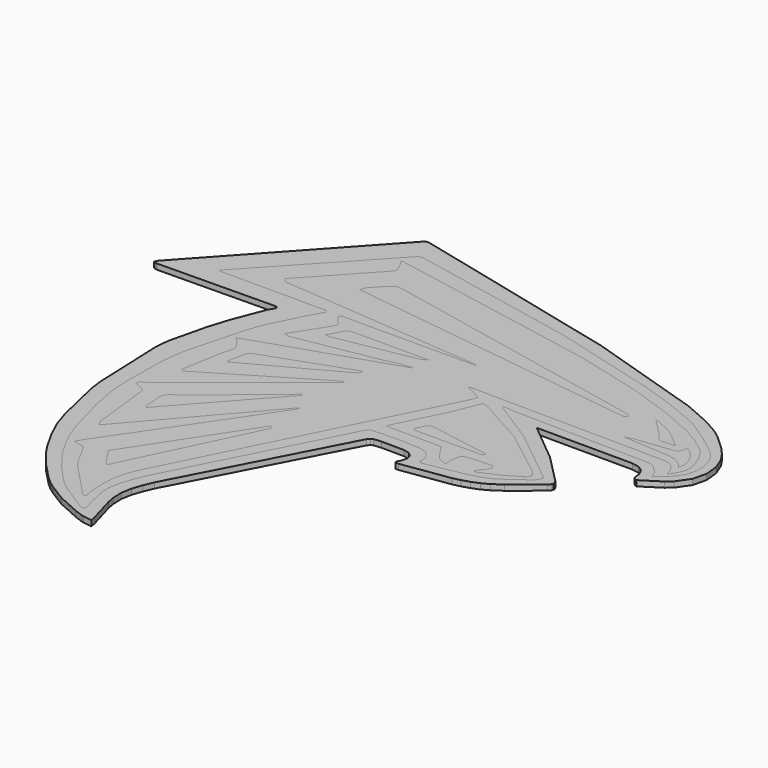
from build123d import *

# Parameters (mm, degrees)
F1_DEPTH = 0.5
F2_DEPTH = 0.5


with BuildPart() as f1:
    # F0 (on Top) → F1 (new body, symmetric)
    with BuildSketch(Plane.XY):
        Polygon((30.30317, 7.500091), (23.278922, 13.29919), (23.276154, 13.301673), (23.311819, 13.316003), (23.373102, 13.332019), (23.4472, 13.339594), (40.578815, 13.299213), (41.889452, 13.063877), (42.820591, 12.428173), (43.372628, 11.439135), (43.545941, 10.143829), (43.640143, 9.976964), (43.856252, 9.791953), (44.089959, 9.652141), (44.236959, 9.620896), (47.614499, 11.786375), (48.621523, 12.63559), (50.209495, 14.898633), (50.791411, 17.375859), (50.552111, 19.824755), (49.676446, 22.002833), (48.693366, 23.436709), (47.518485, 24.764319), (44.892334, 27.185638), (43.834222, 27.996933), (42.691611, 28.712749), (40.301731, 29.992984), (35.834605, 31.94313), (14.659128, 38.663753), (-23.951954, 48.090479), (-24.187449, 48.114662), (-24.439519, 48.106164), (-24.669068, 48.055646), (-24.837004, 47.9538), (-50.503027, 19.890162), (-50.598848, 19.750532), (-50.668936, 19.587152), (-50.791411, 19.244081), (-50.453853, 19.138168), (-50.28537, 19.095042), (-50.117741, 19.080371), (-29.004265, 19.356054), (-28.567036, 19.269426), (-28.436667, 18.957885), (-28.780456, 18.286288), (-28.926989, 18.093839), (-28.99432, 17.995011), (-29.047003, 17.890466), (-31.326449, 11.997358), (-32.456757, 8.379162), (-34.039865, 1.79024), (-34.238591, 0.312885), (-34.312541, -1.162328), (-33.790222, -14.272509), (-33.474375, -16.605526), (-31.521188, -25.03843), (-30.545067, -27.998812), (-29.114381, -31.107914), (-27.256991, -34.371842), (-26.208993, -35.91982), (-23.757215, -38.962138), (-21.0452, -41.783859), (-20.036125, -42.664934), (-18.94761, -43.465703), (-15.83959, -45.395095), (-11.814853, -47.190939), (-10.367057, -47.732304), (-9.85261, -47.867263), (-8.258099, -48.114662), (-8.512458, -46.967735), (-9.862964, -42.225826), (-10.15153, -40.753027), (-10.202629, -38.849687), (-9.87161, -37.001455), (-9.273883, -35.201669), (-8.524863, -33.443688), (6.605723, -4.418111), (6.966997, -3.980848), (7.351224, -3.775709), (8.702857, -3.660707), (12.797238, -3.689765), (13.921908, -3.95318), (14.609224, -4.591811), (14.808941, -5.508619), (14.470824, -6.606543), (14.258635, -6.987261), (14.155319, -7.289724), (14.308709, -7.462843), (14.866693, -7.45553), (23.524635, -6.180307), (24.916034, -5.849025), (26.295621, -5.423017), (27.625623, -4.884637), (28.868212, -4.216241), (30.53166, -3.080807), (35.257804, 0.744715), (35.588527, 1.072727), (35.770041, 1.438808), (35.738466, 1.845247), (35.429932, 2.294356), align=None)
        Polygon((-22.601334, 22.795868), (-32.093137, 22.817636), (-41.347712, 22.822215), (-41.502435, 22.833242), (-41.966478, 22.923252), (-41.73637, 23.261824), (-41.650243, 23.366006), (-22.724139, 43.700276), (-22.423716, 43.861321), (-22.008164, 43.918719), (-21.547766, 43.9057), (8.303253, 37.883726), (27.907332, 32.609623), (33.565126, 30.67219), (38.887949, 28.486833), (40.100522, 27.817082), (43.611381, 25.496207), (46.943643, 22.931716), (48.030164, 21.739475), (48.743531, 20.345183), (49.102903, 18.80233), (49.127416, 17.164432), (48.786566, 15.710759), (48.087358, 14.466587), (47.127503, 13.375874), (46.004668, 12.382598), (45.288453, 11.981889), (45.017862, 12.219606), (44.933661, 12.726729), (44.776671, 13.134227), (43.633286, 14.220179), (43.046336, 14.667056), (42.444201, 14.872627), (17.223175, 15.309024), (15.94458, 15.494013), (15.831685, 15.488579), (15.71642, 15.459339), (15.484251, 15.384125), (15.658212, 15.144904), (15.750148, 15.033205), (15.856471, 14.944527), (23.372464, 10.219306), (33.574649, 1.975229), (33.560787, 1.771343), (33.410495, 1.37904), (33.171673, 0.951118), (32.892277, 0.64034), (29.95954, -1.545883), (28.445416, -2.528212), (26.847488, -3.274464), (24.578374, -3.937939), (17.527107, -5.247323), (16.910586, -5.223026), (16.719549, -4.902623), (16.758175, -4.098015), (16.365645, -3.083655), (15.713196, -2.394254), (14.884178, -1.987314), (13.961902, -1.820358), (9.671813, -1.687927), (5.381497, -1.823468), (5.027467, -2.037628), (4.686595, -2.533429), (-10.412837, -32.097807), (-11.397023, -34.388552), (-12.13701, -36.612627), (-12.40096, -37.748254), (-12.541137, -38.888598), (-12.512807, -39.970688), (-12.34871, -41.061106), (-11.724887, -43.847606), (-11.165354, -45.651971), (-11.218402, -45.695382), (-11.353168, -45.766826), (-11.519031, -45.829236), (-11.665392, -45.845559), (-11.881512, -45.79962), (-12.095741, -45.731183), (-12.301962, -45.641594), (-16.840725, -42.767873), (-18.17976, -41.719568), (-19.494715, -40.483017), (-21.912389, -37.770854), (-23.903451, -35.172736), (-24.701544, -33.944273), (-26.138939, -31.391548), (-27.232466, -29.009789), (-28.111377, -26.538407), (-30.040142, -19.280965), (-30.704437, -15.580037), (-30.974834, -11.854185), (-30.894494, -4.369643), (-30.690768, -1.771206), (-30.262174, 0.802341), (-27.537424, 11.117057), (-26.461803, 14.038608), (-23.469207, 20.085083), (-22.178515, 22.318202), (-22.207334, 22.423078), (-22.319136, 22.583564), (-22.466329, 22.730803), align=None, mode=Mode.SUBTRACT)
        Polygon((-41.347712, 22.822215), (-32.093137, 22.817636), (-22.601334, 22.795868), (-22.466329, 22.730803), (-22.319136, 22.583564), (-22.207334, 22.423078), (-22.178515, 22.318202), (-23.469207, 20.085083), (-26.461803, 14.038608), (-27.537424, 11.117057), (-30.262174, 0.802341), (-30.690768, -1.771206), (-30.894494, -4.369643), (-30.974834, -11.854185), (-30.704437, -15.580037), (-30.040142, -19.280965), (-28.111377, -26.538407), (-27.232466, -29.009789), (-26.138939, -31.391548), (-24.701544, -33.944273), (-23.903451, -35.172736), (-21.912389, -37.770854), (-19.494715, -40.483017), (-18.17976, -41.719568), (-16.840725, -42.767873), (-12.301962, -45.641594), (-12.095741, -45.731183), (-11.881512, -45.79962), (-11.665392, -45.845559), (-11.519031, -45.829236), (-11.353168, -45.766826), (-11.218402, -45.695382), (-11.165354, -45.651971), (-11.724887, -43.847606), (-12.34871, -41.061106), (-12.512807, -39.970688), (-12.541137, -38.888598), (-12.40096, -37.748254), (-12.13701, -36.612627), (-11.397023, -34.388552), (-10.412837, -32.097807), (4.686595, -2.533429), (5.027467, -2.037628), (5.381497, -1.823468), (9.671813, -1.687927), (13.961902, -1.820358), (14.884178, -1.987314), (15.713196, -2.394254), (16.365645, -3.083655), (16.758175, -4.098015), (16.719549, -4.902623), (16.910586, -5.223026), (17.527107, -5.247323), (24.578374, -3.937939), (26.847488, -3.274464), (28.445416, -2.528212), (29.95954, -1.545883), (32.892277, 0.64034), (33.171673, 0.951118), (33.410495, 1.37904), (33.560787, 1.771343), (33.574649, 1.975229), (23.372464, 10.219306), (15.856471, 14.944527), (15.750148, 15.033205), (15.658212, 15.144904), (15.484251, 15.384125), (15.71642, 15.459339), (15.831685, 15.488579), (15.94458, 15.494013), (17.223175, 15.309024), (42.444201, 14.872627), (43.046336, 14.667056), (43.633286, 14.220179), (44.776671, 13.134227), (44.933661, 12.726729), (45.017862, 12.219606), (45.288453, 11.981889), (46.004668, 12.382598), (47.127503, 13.375874), (48.087358, 14.466587), (48.786566, 15.710759), (49.127416, 17.164432), (49.102903, 18.80233), (48.743531, 20.345183), (48.030164, 21.739475), (46.943643, 22.931716), (43.611381, 25.496207), (40.100522, 27.817082), (38.887949, 28.486833), (33.565126, 30.67219), (27.907332, 32.609623), (8.303253, 37.883726), (-21.547766, 43.9057), (-22.008164, 43.918719), (-22.423716, 43.861321), (-22.724139, 43.700276), (-41.650243, 23.366006), (-41.73637, 23.261824), (-41.966478, 22.923252), (-41.502435, 22.833242), align=None)
        Polygon((-1.966469, 16.636999), (-1.992463, 16.82897), (-4.634572, 16.433546), (-6.815657, 15.920101), (-21.552243, 13.341746), (-21.809165, 13.345836), (-22.07676, 13.414944), (-22.619354, 13.598315), (-18.441318, 20.178614), (-18.456252, 20.376007), (-18.61192, 20.658182), (-19.257374, 21.513685), (-19.918081, 22.24907), (-19.976106, 22.357227), (-20.016476, 22.491298), (-20.032594, 22.610139), (-20.017865, 22.672607), (-19.901268, 22.733002), (-19.772072, 22.776503), (-19.636931, 22.802896), (-19.502461, 22.811963), (3.798628, 22.857789), (4.685922, 22.913365), (4.148089, 23.075617), (4.075484, 23.087919), (-32.264798, 26.035476), (-32.506797, 26.143348), (-32.757682, 26.363454), (-32.944892, 26.606878), (-32.995866, 26.784701), (-32.850256, 27.055839), (-22.386035, 38.381327), (-22.348513, 38.638078), (-22.46093, 39.021553), (-23.006691, 40.206138), (-23.689017, 41.348168), (14.914614, 34.121868), (26.989851, 30.972032), (34.304909, 28.464472), (40.227941, 25.928025), (43.012858, 24.339552), (45.579605, 22.383437), (46.239377, 21.611988), (46.763963, 20.685338), (47.624215, 18.681974), (47.940028, 17.453078), (47.845472, 16.283277), (47.413016, 15.171559), (46.715175, 14.116909), (46.659326, 14.05255), (46.474406, 13.873121), (46.357114, 14.156128), (46.328466, 14.252894), (45.976304, 15.232887), (45.417045, 16.019851), (44.660848, 16.557149), (43.717852, 16.788179), (8.497194, 17.14288), (8.34123, 17.132629), (7.87336, 17.04788), (10.817146, 15.521898), (10.863621, 15.367619), (10.834528, 15.078928), (10.751899, 14.744218), (10.637739, 14.451859), (-12.398545, -31.564735), (-13.307881, -33.759603), (-13.817533, -36.009307), (-13.987087, -38.309621), (-13.876151, -40.656364), (-13.593372, -42.395733), (-13.590262, -42.502124), (-13.60523, -42.618231), (-13.635085, -42.714929), (-13.676616, -42.763089), (-13.792838, -42.785985), (-13.921555, -42.789072), (-14.040374, -42.768022), (-14.126887, -42.718528), (-20.193445, -36.297201), (-21.027544, -35.117809), (-23.149419, -31.264369), (-23.259626, -31.183391), (-23.435866, -31.141802), (-23.832873, -31.081886), (-25.267182, -30.697728), (-24.56098, -29.511798), (-6.725111, -3.240918), (-6.694743, -3.147843), (-6.695996, -3.033717), (-6.720498, -2.790817), (-6.931355, -2.977754), (-25.35602, -24.276481), (-25.454893, -24.352378), (-25.583895, -24.415552), (-25.696744, -24.45722), (-25.747126, -24.468611), (-26.025064, -24.003327), (-26.139999, -23.764744), (-26.204266, -23.519452), (-27.402954, -13.072192), (-27.513981, -12.550603), (-27.617673, -12.372255), (-27.806317, -12.208818), (-28.037621, -12.076422), (-28.269324, -11.991207), (-29.511752, -11.451403), (-29.495224, -10.927831), (-28.852276, -10.450438), (-28.215479, -10.04916), (-6.906431, 7.038031), (-6.846367, 7.100145), (-6.692077, 7.316231), (-6.974663, 7.332383), (-7.109155, 7.328989), (-7.223873, 7.292219), (-26.720035, -4.33752), (-26.823407, -4.324717), (-26.969029, -4.249993), (-27.097063, -4.154696), (-27.147684, -4.080177), (-25.9763, 2.864528), (-25.420298, 5.025816), (-25.368345, 5.737668), (-25.496515, 6.219936), (-25.781846, 6.695711), (-26.494506, 7.623512), (-26.63679, 7.780034), (-26.809761, 7.91488), (-27.177505, 8.169182), (-26.712175, 8.479948), (-26.547189, 8.554923), align=None, mode=Mode.SUBTRACT)
        Polygon((11.360674, 0.425701), (11.360663, 0.438573), (6.853076, 0.447492), (6.71102, 0.462915), (6.564363, 0.50456), (6.436591, 0.569659), (6.351182, 0.655399), (6.337182, 0.754944), (6.372095, 0.885153), (10.593053, 9.316667), (12.601486, 14.314518), (12.708572, 14.360822), (12.925261, 14.369776), (13.176191, 14.340592), (13.385989, 14.272463), (22.26954, 9.32709), (31.194087, 2.475005), (31.880355, 1.463777), (31.552171, 0.743074), (30.767258, 0.239232), (30.083348, -0.121438), (28.873987, -0.860982), (24.952121, -2.656758), (24.874139, -2.66513), (24.780802, -2.640458), (24.583602, -2.568399), (24.629884, -2.344283), (24.659659, -2.237174), (24.708469, -2.144258), (25.70768, -0.860515), (26.001474, -0.410152), (25.983875, -0.228957), (25.85526, 0.036542), (25.681059, 0.275728), (25.526724, 0.377962), (21.764228, 0.18525), (20.525934, 0.015013), (20.323404, -0.204478), (20.161698, -0.686735), (19.949292, -1.846318), (19.934108, -2.215987), (20.092965, -3.35469), (19.138692, -3.003588), (18.692146, -2.800215), (18.330303, -2.519794), (17.792845, -1.85977), (16.356999, 0.283337), (16.286637, 0.344005), (16.185873, 0.386334), (16.072215, 0.41128), (15.963136, 0.419789), align=None, mode=Mode.SUBTRACT)
        Polygon((-4.634572, 16.433546), (-1.992463, 16.82897), (-1.966469, 16.636999), (-26.547189, 8.554923), (-26.712175, 8.479948), (-27.177505, 8.169182), (-26.809761, 7.91488), (-26.63679, 7.780034), (-26.494506, 7.623512), (-25.781846, 6.695711), (-25.496515, 6.219936), (-25.368345, 5.737668), (-25.420298, 5.025816), (-25.9763, 2.864528), (-27.147684, -4.080177), (-27.097063, -4.154696), (-26.969029, -4.249993), (-26.823407, -4.324717), (-26.720035, -4.33752), (-7.223873, 7.292219), (-7.109155, 7.328989), (-6.974663, 7.332383), (-6.692077, 7.316231), (-6.846367, 7.100145), (-6.906431, 7.038031), (-28.215479, -10.04916), (-28.852276, -10.450438), (-29.495224, -10.927831), (-29.511752, -11.451403), (-28.269324, -11.991207), (-28.037621, -12.076422), (-27.806317, -12.208818), (-27.617673, -12.372255), (-27.513981, -12.550603), (-27.402954, -13.072192), (-26.204266, -23.519452), (-26.139999, -23.764744), (-26.025064, -24.003327), (-25.747126, -24.468611), (-25.696744, -24.45722), (-25.583895, -24.415552), (-25.454893, -24.352378), (-25.35602, -24.276481), (-6.931355, -2.977754), (-6.720498, -2.790817), (-6.695996, -3.033717), (-6.694743, -3.147843), (-6.725111, -3.240918), (-24.56098, -29.511798), (-25.267182, -30.697728), (-23.832873, -31.081886), (-23.435866, -31.141802), (-23.259626, -31.183391), (-23.149419, -31.264369), (-21.027544, -35.117809), (-20.193445, -36.297201), (-14.126887, -42.718528), (-14.040374, -42.768022), (-13.921555, -42.789072), (-13.792838, -42.785985), (-13.676616, -42.763089), (-13.635085, -42.714929), (-13.60523, -42.618231), (-13.590262, -42.502124), (-13.593372, -42.395733), (-13.876151, -40.656364), (-13.987087, -38.309621), (-13.817533, -36.009307), (-13.307881, -33.759603), (-12.398545, -31.564735), (10.637739, 14.451859), (10.751899, 14.744218), (10.834528, 15.078928), (10.863621, 15.367619), (10.817146, 15.521898), (7.87336, 17.04788), (8.34123, 17.132629), (8.497194, 17.14288), (43.717852, 16.788179), (44.660848, 16.557149), (45.417045, 16.019851), (45.976304, 15.232887), (46.328466, 14.252894), (46.357114, 14.156128), (46.474406, 13.873121), (46.659326, 14.05255), (46.715175, 14.116909), (47.413016, 15.171559), (47.845472, 16.283277), (47.940028, 17.453078), (47.624215, 18.681974), (46.763963, 20.685338), (46.239377, 21.611988), (45.579605, 22.383437), (43.012858, 24.339552), (40.227941, 25.928025), (34.304909, 28.464472), (26.989851, 30.972032), (14.914614, 34.121868), (-23.689017, 41.348168), (-23.006691, 40.206138), (-22.46093, 39.021553), (-22.348513, 38.638078), (-22.386035, 38.381327), (-32.850256, 27.055839), (-32.995866, 26.784701), (-32.944892, 26.606878), (-32.757682, 26.363454), (-32.506797, 26.143348), (-32.264798, 26.035476), (4.075484, 23.087919), (4.148089, 23.075617), (4.685922, 22.913365), (3.798628, 22.857789), (-19.502461, 22.811963), (-19.636931, 22.802896), (-19.772072, 22.776503), (-19.901268, 22.733002), (-20.017865, 22.672607), (-20.032594, 22.610139), (-20.016476, 22.491298), (-19.976106, 22.357227), (-19.918081, 22.24907), (-19.257374, 21.513685), (-18.61192, 20.658182), (-18.456252, 20.376007), (-18.441318, 20.178614), (-22.619354, 13.598315), (-22.07676, 13.414944), (-21.809165, 13.345836), (-21.552243, 13.341746), (-6.815657, 15.920101), align=None)
        Polygon((-17.495361, -33.278064), (-19.737524, -29.955246), (-6.62937, -9.92861), (-6.548655, -9.858134), (-6.431693, -9.800713), (-6.32373, -9.765845), (-6.269999, -9.763054), (-6.080614, -10.041961), (-6.017667, -10.17995), (-6.016141, -10.292447), (-17.048085, -33.240451), (-17.12871, -33.287781), (-17.269821, -33.312545), (-17.411888, -33.310654), align=None, mode=Mode.SUBTRACT)
        Polygon((-24.007439, -16.03966), (-24.382074, -12.741947), (-24.237991, -11.795169), (-23.620854, -11.123265), (-21.960106, -10.00445), (-9.127966, 0.626853), (-9.087949, 0.644919), (-9.037875, 0.650535), (-8.930823, 0.6532), (-8.957148, 0.421395), (-8.978585, 0.312259), (-9.024035, 0.222772), (-23.631698, -16.130354), (-23.687434, -16.175063), (-23.754344, -16.209441), (-23.895842, -16.271112), (-23.962502, -16.156667), (-23.9914, -16.098927), align=None, mode=Mode.SUBTRACT)
        Polygon((-22.148033, 6.069154), (-6.923951, 11.479026), (-6.714347, 11.337881), (-6.691234, 11.31093), (-6.859752, 10.893841), (-6.961734, 10.70875), (-7.0965, 10.582994), (-23.379709, 1.850327), (-23.435194, 1.832968), (-23.500965, 1.825404), (-23.556815, 1.826566), (-23.582558, 1.835371), (-23.606171, 1.913342), (-23.625023, 1.993898), (-23.634523, 2.074569), (-23.630047, 2.152858), (-23.022126, 5.411512), (-22.902134, 5.615079), (-22.684032, 5.799076), (-22.41646, 5.953696), align=None, mode=Mode.SUBTRACT)
        Polygon((-15.969366, 19.894103), (-14.953765, 20.016692), (-1.653265, 19.990652), (-2.689883, 19.475875), (-3.048001, 19.367866), (-15.707991, 17.081016), (-16.303177, 16.93658), (-16.603259, 16.888806), (-16.929722, 16.868451), (-17.916608, 16.879921), (-17.537871, 17.596762), (-17.397046, 17.826004), (-16.588701, 19.342191), align=None, mode=Mode.SUBTRACT)
        Polygon((46.640326, 17.51509), (46.536805, 16.286444), (45.565366, 17.452531), (44.37308, 18.085968), (43.027632, 18.361776), (34.631498, 18.876702), (35.8136, 19.21574), (36.192735, 19.286945), (42.891784, 20.044782), (43.082, 20.123937), (43.265952, 20.275482), (43.422156, 20.467533), (43.529128, 20.668183), (43.605697, 20.945529), (43.643253, 21.237968), (43.687997, 21.834601), (44.623008, 21.237364), (45.591622, 20.229987), (46.294669, 18.909416), align=None, mode=Mode.SUBTRACT)
        Polygon((41.549696, 21.235337), (40.28616, 21.229972), (39.441752, 21.098634), (38.857637, 21.471937), (37.915769, 22.698259), (35.032275, 25.567332), (35.25925, 25.636418), (35.366894, 25.658722), (35.457612, 25.645565), (37.950101, 24.460489), (38.735869, 23.995524), (39.506737, 23.440445), (41.753764, 21.52855), (41.92121, 21.346865), (41.643113, 21.249359), align=None, mode=Mode.SUBTRACT)
        Polygon((30.191846, 23.754902), (30.198009, 23.760746), (-22.748846, 30.733769), (-22.567412, 31.318156), (-22.460349, 31.595741), (-22.306913, 31.831863), (-21.004978, 33.234893), (-19.623512, 34.555121), (-19.368663, 34.69163), (-19.040503, 34.754861), (-18.686439, 34.759019), (-18.35387, 34.718285), (30.701544, 24.627867), (30.835717, 24.547687), (30.954103, 24.402635), (31.17978, 24.066934), (30.901386, 23.885385), (30.760013, 23.805569), (30.612786, 23.755244), (30.433983, 23.736506), (30.282085, 23.741609), align=None, mode=Mode.SUBTRACT)
        Polygon((-22.748846, 30.733769), (30.198009, 23.760746), (30.191846, 23.754902), (30.282085, 23.741609), (30.433983, 23.736506), (30.612786, 23.755244), (30.760013, 23.805569), (30.901386, 23.885385), (31.17978, 24.066934), (30.954103, 24.402635), (30.835717, 24.547687), (30.701544, 24.627867), (-18.35387, 34.718285), (-18.686439, 34.759019), (-19.040503, 34.754861), (-19.368663, 34.69163), (-19.623512, 34.555121), (-21.004978, 33.234893), (-22.306913, 31.831863), (-22.460349, 31.595741), (-22.567412, 31.318156), align=None)
        Polygon((-1.653265, 19.990652), (-14.953765, 20.016692), (-15.969366, 19.894103), (-16.588701, 19.342191), (-17.397046, 17.826004), (-17.537871, 17.596762), (-17.916608, 16.879921), (-16.929722, 16.868451), (-16.603259, 16.888806), (-16.303177, 16.93658), (-15.707991, 17.081016), (-3.048001, 19.367866), (-2.689883, 19.475875), align=None)
        Polygon((-6.714347, 11.337881), (-6.923951, 11.479026), (-22.148033, 6.069154), (-22.41646, 5.953696), (-22.684032, 5.799076), (-22.902134, 5.615079), (-23.022126, 5.411512), (-23.630047, 2.152858), (-23.634523, 2.074569), (-23.625023, 1.993898), (-23.606171, 1.913342), (-23.582558, 1.835371), (-23.556815, 1.826566), (-23.500965, 1.825404), (-23.435194, 1.832968), (-23.379709, 1.850327), (-7.0965, 10.582994), (-6.961734, 10.70875), (-6.859752, 10.893841), (-6.691234, 11.31093), align=None)
        Polygon((-24.237991, -11.795169), (-24.382074, -12.741947), (-24.007439, -16.03966), (-23.9914, -16.098927), (-23.962502, -16.156667), (-23.895842, -16.271112), (-23.754344, -16.209441), (-23.687434, -16.175063), (-23.631698, -16.130354), (-9.024035, 0.222772), (-8.978585, 0.312259), (-8.957148, 0.421395), (-8.930823, 0.6532), (-9.037875, 0.650535), (-9.087949, 0.644919), (-9.127966, 0.626853), (-21.960106, -10.00445), (-23.620854, -11.123265), align=None)
        Polygon((-6.62937, -9.92861), (-19.737524, -29.955246), (-17.495361, -33.278064), (-17.411888, -33.310654), (-17.269821, -33.312545), (-17.12871, -33.287781), (-17.048085, -33.240451), (-6.016141, -10.292447), (-6.017667, -10.17995), (-6.080614, -10.041961), (-6.269999, -9.763054), (-6.32373, -9.765845), (-6.431693, -9.800713), (-6.548655, -9.858134), align=None)
        Polygon((6.853076, 0.447492), (11.360663, 0.438573), (11.360674, 0.425701), (15.963136, 0.419789), (16.072215, 0.41128), (16.185873, 0.386334), (16.286637, 0.344005), (16.356999, 0.283337), (17.792845, -1.85977), (18.330303, -2.519794), (18.692146, -2.800215), (19.138692, -3.003588), (20.092965, -3.35469), (19.934108, -2.215987), (19.949292, -1.846318), (20.161698, -0.686735), (20.323404, -0.204478), (20.525934, 0.015013), (21.764228, 0.18525), (25.526724, 0.377962), (25.681059, 0.275728), (25.85526, 0.036542), (25.983875, -0.228957), (26.001474, -0.410152), (25.70768, -0.860515), (24.708469, -2.144258), (24.659659, -2.237174), (24.629884, -2.344283), (24.583602, -2.568399), (24.780802, -2.640458), (24.874139, -2.66513), (24.952121, -2.656758), (28.873987, -0.860982), (30.083348, -0.121438), (30.767258, 0.239232), (31.552171, 0.743074), (31.880355, 1.463777), (31.194087, 2.475005), (22.26954, 9.32709), (13.385989, 14.272463), (13.176191, 14.340592), (12.925261, 14.369776), (12.708572, 14.360822), (12.601486, 14.314518), (10.593053, 9.316667), (6.372095, 0.885153), (6.337182, 0.754944), (6.351182, 0.655399), (6.436591, 0.569659), (6.564363, 0.50456), (6.71102, 0.462915), align=None)
        Polygon((22.252738, 2.022751), (16.18044, 2.007932), (10.678496, 1.978851), (10.110409, 2.016828), (9.887534, 2.198809), (9.918984, 2.508562), (10.556727, 3.858931), (10.740166, 4.14048), (10.890344, 4.278868), (11.091131, 4.389189), (11.309028, 4.455906), (11.510533, 4.463481), (22.541429, 2.608142), (22.595753, 2.567214), (22.648914, 2.48717), (22.686219, 2.405919), (22.69294, 2.36138), (22.480112, 2.14296), (22.366761, 2.05771), align=None, mode=Mode.SUBTRACT)
        Polygon((10.678496, 1.978851), (16.18044, 2.007932), (22.252738, 2.022751), (22.366761, 2.05771), (22.480112, 2.14296), (22.69294, 2.36138), (22.686219, 2.405919), (22.648914, 2.48717), (22.595753, 2.567214), (22.541429, 2.608142), (11.510533, 4.463481), (11.309028, 4.455906), (11.091131, 4.389189), (10.890344, 4.278868), (10.740166, 4.14048), (10.556727, 3.858931), (9.918984, 2.508562), (9.887534, 2.198809), (10.110409, 2.016828), align=None)
        Polygon((39.441752, 21.098634), (40.28616, 21.229972), (41.549696, 21.235337), (41.643113, 21.249359), (41.92121, 21.346865), (41.753764, 21.52855), (39.506737, 23.440445), (38.735869, 23.995524), (37.950101, 24.460489), (35.457612, 25.645565), (35.366894, 25.658722), (35.25925, 25.636418), (35.032275, 25.567332), (37.915769, 22.698259), (38.857637, 21.471937), align=None)
        Polygon((45.565366, 17.452531), (46.536805, 16.286444), (46.640326, 17.51509), (46.294669, 18.909416), (45.591622, 20.229987), (44.623008, 21.237364), (43.687997, 21.834601), (43.643253, 21.237968), (43.605697, 20.945529), (43.529128, 20.668183), (43.422156, 20.467533), (43.265952, 20.275482), (43.082, 20.123937), (42.891784, 20.044782), (36.192735, 19.286945), (35.8136, 19.21574), (34.631498, 18.876702), (43.027632, 18.361776), (44.37308, 18.085968), align=None)
    extrude(amount=F1_DEPTH, both=True)


with BuildPart() as f2:
    # F0 (on Top) → F2 (new body, symmetric)
    with BuildSketch(Plane.XY):
        Polygon((30.30317, 7.500091), (23.278922, 13.29919), (23.276154, 13.301673), (23.311819, 13.316003), (23.373102, 13.332019), (23.4472, 13.339594), (40.578815, 13.299213), (41.889452, 13.063877), (42.820591, 12.428173), (43.372628, 11.439135), (43.545941, 10.143829), (43.640143, 9.976964), (43.856252, 9.791953), (44.089959, 9.652141), (44.236959, 9.620896), (47.614499, 11.786375), (48.621523, 12.63559), (50.209495, 14.898633), (50.791411, 17.375859), (50.552111, 19.824755), (49.676446, 22.002833), (48.693366, 23.436709), (47.518485, 24.764319), (44.892334, 27.185638), (43.834222, 27.996933), (42.691611, 28.712749), (40.301731, 29.992984), (35.834605, 31.94313), (14.659128, 38.663753), (-23.951954, 48.090479), (-24.187449, 48.114662), (-24.439519, 48.106164), (-24.669068, 48.055646), (-24.837004, 47.9538), (-50.503027, 19.890162), (-50.598848, 19.750532), (-50.668936, 19.587152), (-50.791411, 19.244081), (-50.453853, 19.138168), (-50.28537, 19.095042), (-50.117741, 19.080371), (-29.004265, 19.356054), (-28.567036, 19.269426), (-28.436667, 18.957885), (-28.780456, 18.286288), (-28.926989, 18.093839), (-28.99432, 17.995011), (-29.047003, 17.890466), (-31.326449, 11.997358), (-32.456757, 8.379162), (-34.039865, 1.79024), (-34.238591, 0.312885), (-34.312541, -1.162328), (-33.790222, -14.272509), (-33.474375, -16.605526), (-31.521188, -25.03843), (-30.545067, -27.998812), (-29.114381, -31.107914), (-27.256991, -34.371842), (-26.208993, -35.91982), (-23.757215, -38.962138), (-21.0452, -41.783859), (-20.036125, -42.664934), (-18.94761, -43.465703), (-15.83959, -45.395095), (-11.814853, -47.190939), (-10.367057, -47.732304), (-9.85261, -47.867263), (-8.258099, -48.114662), (-8.512458, -46.967735), (-9.862964, -42.225826), (-10.15153, -40.753027), (-10.202629, -38.849687), (-9.87161, -37.001455), (-9.273883, -35.201669), (-8.524863, -33.443688), (6.605723, -4.418111), (6.966997, -3.980848), (7.351224, -3.775709), (8.702857, -3.660707), (12.797238, -3.689765), (13.921908, -3.95318), (14.609224, -4.591811), (14.808941, -5.508619), (14.470824, -6.606543), (14.258635, -6.987261), (14.155319, -7.289724), (14.308709, -7.462843), (14.866693, -7.45553), (23.524635, -6.180307), (24.916034, -5.849025), (26.295621, -5.423017), (27.625623, -4.884637), (28.868212, -4.216241), (30.53166, -3.080807), (35.257804, 0.744715), (35.588527, 1.072727), (35.770041, 1.438808), (35.738466, 1.845247), (35.429932, 2.294356), align=None)
        Polygon((-22.601334, 22.795868), (-32.093137, 22.817636), (-41.347712, 22.822215), (-41.502435, 22.833242), (-41.966478, 22.923252), (-41.73637, 23.261824), (-41.650243, 23.366006), (-22.724139, 43.700276), (-22.423716, 43.861321), (-22.008164, 43.918719), (-21.547766, 43.9057), (8.303253, 37.883726), (27.907332, 32.609623), (33.565126, 30.67219), (38.887949, 28.486833), (40.100522, 27.817082), (43.611381, 25.496207), (46.943643, 22.931716), (48.030164, 21.739475), (48.743531, 20.345183), (49.102903, 18.80233), (49.127416, 17.164432), (48.786566, 15.710759), (48.087358, 14.466587), (47.127503, 13.375874), (46.004668, 12.382598), (45.288453, 11.981889), (45.017862, 12.219606), (44.933661, 12.726729), (44.776671, 13.134227), (43.633286, 14.220179), (43.046336, 14.667056), (42.444201, 14.872627), (17.223175, 15.309024), (15.94458, 15.494013), (15.831685, 15.488579), (15.71642, 15.459339), (15.484251, 15.384125), (15.658212, 15.144904), (15.750148, 15.033205), (15.856471, 14.944527), (23.372464, 10.219306), (33.574649, 1.975229), (33.560787, 1.771343), (33.410495, 1.37904), (33.171673, 0.951118), (32.892277, 0.64034), (29.95954, -1.545883), (28.445416, -2.528212), (26.847488, -3.274464), (24.578374, -3.937939), (17.527107, -5.247323), (16.910586, -5.223026), (16.719549, -4.902623), (16.758175, -4.098015), (16.365645, -3.083655), (15.713196, -2.394254), (14.884178, -1.987314), (13.961902, -1.820358), (9.671813, -1.687927), (5.381497, -1.823468), (5.027467, -2.037628), (4.686595, -2.533429), (-10.412837, -32.097807), (-11.397023, -34.388552), (-12.13701, -36.612627), (-12.40096, -37.748254), (-12.541137, -38.888598), (-12.512807, -39.970688), (-12.34871, -41.061106), (-11.724887, -43.847606), (-11.165354, -45.651971), (-11.218402, -45.695382), (-11.353168, -45.766826), (-11.519031, -45.829236), (-11.665392, -45.845559), (-11.881512, -45.79962), (-12.095741, -45.731183), (-12.301962, -45.641594), (-16.840725, -42.767873), (-18.17976, -41.719568), (-19.494715, -40.483017), (-21.912389, -37.770854), (-23.903451, -35.172736), (-24.701544, -33.944273), (-26.138939, -31.391548), (-27.232466, -29.009789), (-28.111377, -26.538407), (-30.040142, -19.280965), (-30.704437, -15.580037), (-30.974834, -11.854185), (-30.894494, -4.369643), (-30.690768, -1.771206), (-30.262174, 0.802341), (-27.537424, 11.117057), (-26.461803, 14.038608), (-23.469207, 20.085083), (-22.178515, 22.318202), (-22.207334, 22.423078), (-22.319136, 22.583564), (-22.466329, 22.730803), align=None, mode=Mode.SUBTRACT)
        Polygon((-4.634572, 16.433546), (-1.992463, 16.82897), (-1.966469, 16.636999), (-26.547189, 8.554923), (-26.712175, 8.479948), (-27.177505, 8.169182), (-26.809761, 7.91488), (-26.63679, 7.780034), (-26.494506, 7.623512), (-25.781846, 6.695711), (-25.496515, 6.219936), (-25.368345, 5.737668), (-25.420298, 5.025816), (-25.9763, 2.864528), (-27.147684, -4.080177), (-27.097063, -4.154696), (-26.969029, -4.249993), (-26.823407, -4.324717), (-26.720035, -4.33752), (-7.223873, 7.292219), (-7.109155, 7.328989), (-6.974663, 7.332383), (-6.692077, 7.316231), (-6.846367, 7.100145), (-6.906431, 7.038031), (-28.215479, -10.04916), (-28.852276, -10.450438), (-29.495224, -10.927831), (-29.511752, -11.451403), (-28.269324, -11.991207), (-28.037621, -12.076422), (-27.806317, -12.208818), (-27.617673, -12.372255), (-27.513981, -12.550603), (-27.402954, -13.072192), (-26.204266, -23.519452), (-26.139999, -23.764744), (-26.025064, -24.003327), (-25.747126, -24.468611), (-25.696744, -24.45722), (-25.583895, -24.415552), (-25.454893, -24.352378), (-25.35602, -24.276481), (-6.931355, -2.977754), (-6.720498, -2.790817), (-6.695996, -3.033717), (-6.694743, -3.147843), (-6.725111, -3.240918), (-24.56098, -29.511798), (-25.267182, -30.697728), (-23.832873, -31.081886), (-23.435866, -31.141802), (-23.259626, -31.183391), (-23.149419, -31.264369), (-21.027544, -35.117809), (-20.193445, -36.297201), (-14.126887, -42.718528), (-14.040374, -42.768022), (-13.921555, -42.789072), (-13.792838, -42.785985), (-13.676616, -42.763089), (-13.635085, -42.714929), (-13.60523, -42.618231), (-13.590262, -42.502124), (-13.593372, -42.395733), (-13.876151, -40.656364), (-13.987087, -38.309621), (-13.817533, -36.009307), (-13.307881, -33.759603), (-12.398545, -31.564735), (10.637739, 14.451859), (10.751899, 14.744218), (10.834528, 15.078928), (10.863621, 15.367619), (10.817146, 15.521898), (7.87336, 17.04788), (8.34123, 17.132629), (8.497194, 17.14288), (43.717852, 16.788179), (44.660848, 16.557149), (45.417045, 16.019851), (45.976304, 15.232887), (46.328466, 14.252894), (46.357114, 14.156128), (46.474406, 13.873121), (46.659326, 14.05255), (46.715175, 14.116909), (47.413016, 15.171559), (47.845472, 16.283277), (47.940028, 17.453078), (47.624215, 18.681974), (46.763963, 20.685338), (46.239377, 21.611988), (45.579605, 22.383437), (43.012858, 24.339552), (40.227941, 25.928025), (34.304909, 28.464472), (26.989851, 30.972032), (14.914614, 34.121868), (-23.689017, 41.348168), (-23.006691, 40.206138), (-22.46093, 39.021553), (-22.348513, 38.638078), (-22.386035, 38.381327), (-32.850256, 27.055839), (-32.995866, 26.784701), (-32.944892, 26.606878), (-32.757682, 26.363454), (-32.506797, 26.143348), (-32.264798, 26.035476), (4.075484, 23.087919), (4.148089, 23.075617), (4.685922, 22.913365), (3.798628, 22.857789), (-19.502461, 22.811963), (-19.636931, 22.802896), (-19.772072, 22.776503), (-19.901268, 22.733002), (-20.017865, 22.672607), (-20.032594, 22.610139), (-20.016476, 22.491298), (-19.976106, 22.357227), (-19.918081, 22.24907), (-19.257374, 21.513685), (-18.61192, 20.658182), (-18.456252, 20.376007), (-18.441318, 20.178614), (-22.619354, 13.598315), (-22.07676, 13.414944), (-21.809165, 13.345836), (-21.552243, 13.341746), (-6.815657, 15.920101), align=None)
        Polygon((-17.495361, -33.278064), (-19.737524, -29.955246), (-6.62937, -9.92861), (-6.548655, -9.858134), (-6.431693, -9.800713), (-6.32373, -9.765845), (-6.269999, -9.763054), (-6.080614, -10.041961), (-6.017667, -10.17995), (-6.016141, -10.292447), (-17.048085, -33.240451), (-17.12871, -33.287781), (-17.269821, -33.312545), (-17.411888, -33.310654), align=None, mode=Mode.SUBTRACT)
        Polygon((-24.007439, -16.03966), (-24.382074, -12.741947), (-24.237991, -11.795169), (-23.620854, -11.123265), (-21.960106, -10.00445), (-9.127966, 0.626853), (-9.087949, 0.644919), (-9.037875, 0.650535), (-8.930823, 0.6532), (-8.957148, 0.421395), (-8.978585, 0.312259), (-9.024035, 0.222772), (-23.631698, -16.130354), (-23.687434, -16.175063), (-23.754344, -16.209441), (-23.895842, -16.271112), (-23.962502, -16.156667), (-23.9914, -16.098927), align=None, mode=Mode.SUBTRACT)
        Polygon((-22.148033, 6.069154), (-6.923951, 11.479026), (-6.714347, 11.337881), (-6.691234, 11.31093), (-6.859752, 10.893841), (-6.961734, 10.70875), (-7.0965, 10.582994), (-23.379709, 1.850327), (-23.435194, 1.832968), (-23.500965, 1.825404), (-23.556815, 1.826566), (-23.582558, 1.835371), (-23.606171, 1.913342), (-23.625023, 1.993898), (-23.634523, 2.074569), (-23.630047, 2.152858), (-23.022126, 5.411512), (-22.902134, 5.615079), (-22.684032, 5.799076), (-22.41646, 5.953696), align=None, mode=Mode.SUBTRACT)
        Polygon((-15.969366, 19.894103), (-14.953765, 20.016692), (-1.653265, 19.990652), (-2.689883, 19.475875), (-3.048001, 19.367866), (-15.707991, 17.081016), (-16.303177, 16.93658), (-16.603259, 16.888806), (-16.929722, 16.868451), (-17.916608, 16.879921), (-17.537871, 17.596762), (-17.397046, 17.826004), (-16.588701, 19.342191), align=None, mode=Mode.SUBTRACT)
        Polygon((46.640326, 17.51509), (46.536805, 16.286444), (45.565366, 17.452531), (44.37308, 18.085968), (43.027632, 18.361776), (34.631498, 18.876702), (35.8136, 19.21574), (36.192735, 19.286945), (42.891784, 20.044782), (43.082, 20.123937), (43.265952, 20.275482), (43.422156, 20.467533), (43.529128, 20.668183), (43.605697, 20.945529), (43.643253, 21.237968), (43.687997, 21.834601), (44.623008, 21.237364), (45.591622, 20.229987), (46.294669, 18.909416), align=None, mode=Mode.SUBTRACT)
        Polygon((41.549696, 21.235337), (40.28616, 21.229972), (39.441752, 21.098634), (38.857637, 21.471937), (37.915769, 22.698259), (35.032275, 25.567332), (35.25925, 25.636418), (35.366894, 25.658722), (35.457612, 25.645565), (37.950101, 24.460489), (38.735869, 23.995524), (39.506737, 23.440445), (41.753764, 21.52855), (41.92121, 21.346865), (41.643113, 21.249359), align=None, mode=Mode.SUBTRACT)
        Polygon((30.191846, 23.754902), (30.198009, 23.760746), (-22.748846, 30.733769), (-22.567412, 31.318156), (-22.460349, 31.595741), (-22.306913, 31.831863), (-21.004978, 33.234893), (-19.623512, 34.555121), (-19.368663, 34.69163), (-19.040503, 34.754861), (-18.686439, 34.759019), (-18.35387, 34.718285), (30.701544, 24.627867), (30.835717, 24.547687), (30.954103, 24.402635), (31.17978, 24.066934), (30.901386, 23.885385), (30.760013, 23.805569), (30.612786, 23.755244), (30.433983, 23.736506), (30.282085, 23.741609), align=None, mode=Mode.SUBTRACT)
        Polygon((6.853076, 0.447492), (11.360663, 0.438573), (11.360674, 0.425701), (15.963136, 0.419789), (16.072215, 0.41128), (16.185873, 0.386334), (16.286637, 0.344005), (16.356999, 0.283337), (17.792845, -1.85977), (18.330303, -2.519794), (18.692146, -2.800215), (19.138692, -3.003588), (20.092965, -3.35469), (19.934108, -2.215987), (19.949292, -1.846318), (20.161698, -0.686735), (20.323404, -0.204478), (20.525934, 0.015013), (21.764228, 0.18525), (25.526724, 0.377962), (25.681059, 0.275728), (25.85526, 0.036542), (25.983875, -0.228957), (26.001474, -0.410152), (25.70768, -0.860515), (24.708469, -2.144258), (24.659659, -2.237174), (24.629884, -2.344283), (24.583602, -2.568399), (24.780802, -2.640458), (24.874139, -2.66513), (24.952121, -2.656758), (28.873987, -0.860982), (30.083348, -0.121438), (30.767258, 0.239232), (31.552171, 0.743074), (31.880355, 1.463777), (31.194087, 2.475005), (22.26954, 9.32709), (13.385989, 14.272463), (13.176191, 14.340592), (12.925261, 14.369776), (12.708572, 14.360822), (12.601486, 14.314518), (10.593053, 9.316667), (6.372095, 0.885153), (6.337182, 0.754944), (6.351182, 0.655399), (6.436591, 0.569659), (6.564363, 0.50456), (6.71102, 0.462915), align=None)
        Polygon((22.252738, 2.022751), (16.18044, 2.007932), (10.678496, 1.978851), (10.110409, 2.016828), (9.887534, 2.198809), (9.918984, 2.508562), (10.556727, 3.858931), (10.740166, 4.14048), (10.890344, 4.278868), (11.091131, 4.389189), (11.309028, 4.455906), (11.510533, 4.463481), (22.541429, 2.608142), (22.595753, 2.567214), (22.648914, 2.48717), (22.686219, 2.405919), (22.69294, 2.36138), (22.480112, 2.14296), (22.366761, 2.05771), align=None, mode=Mode.SUBTRACT)
    extrude(amount=F2_DEPTH, both=True)


solid = Compound([f1.part, f2.part])
